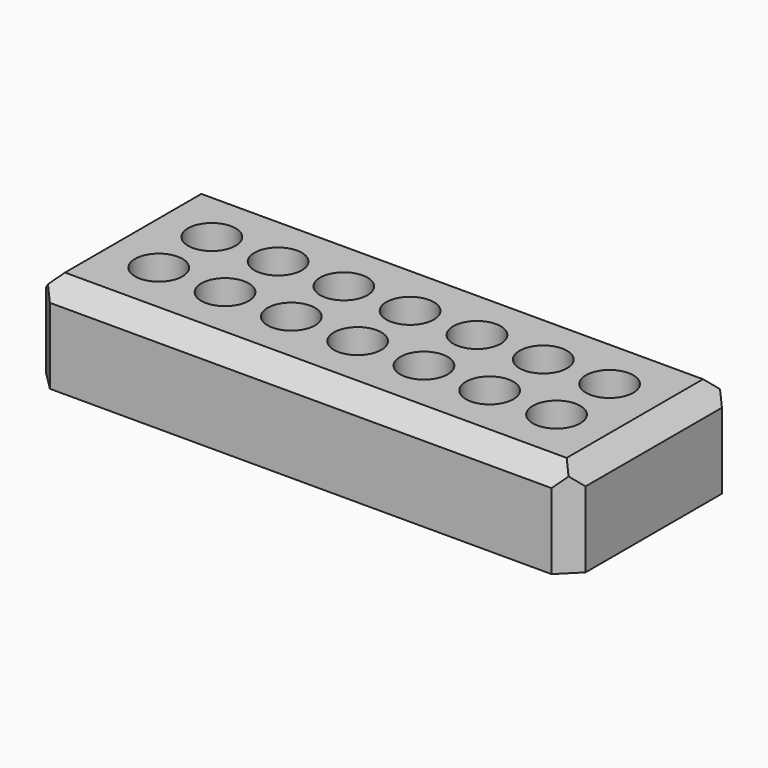
from build123d import *

# Parameters (mm, degrees)
F0_W     = 144.78
F0_H     = 55.88
F1_DEPTH = 25.4
F2_R     = 6.37356
F3_DEPTH = 20.32
F4_SIZE  = 5.08
F5_SIZE  = 5.08


with BuildPart() as f1:
    # F0 (on Top) → F1 (new body)
    with BuildSketch(Plane.XY):
        with Locations((72.39, -27.94)):
            Rectangle(F0_W, F0_H)
    extrude(amount=F1_DEPTH)

    # F2 (on face) → F3 (cut)
    with BuildSketch(Plane.XY.offset(25.4)):
        with Locations((125.770479, -18.998763)):
            Circle(F2_R)
        with Locations((125.770479, -36.789436)):
            Circle(F2_R)
        with Locations((107.979804, -36.989331)):
            Circle(F2_R)
        with Locations((107.979804, -18.998763)):
            Circle(F2_R)
        with Locations((90.189137, -18.998763)):
            Circle(F2_R)
        with Locations((90.189137, -36.789436)):
            Circle(F2_R)
        with Locations((72.398461, -36.789436)):
            Circle(F2_R)
        with Locations((72.398461, -19.19866)):
            Circle(F2_R)
        with Locations((54.60779, -19.19866)):
            Circle(F2_R)
        with Locations((54.60779, -36.789436)):
            Circle(F2_R)
        with Locations((36.817115, -36.789436)):
            Circle(F2_R)
        with Locations((36.817115, -18.998763)):
            Circle(F2_R)
        with Locations((19.02644, -18.998763)):
            Circle(F2_R)
        with Locations((19.02644, -36.789436)):
            Circle(F2_R)
    extrude(amount=-F3_DEPTH, mode=Mode.SUBTRACT)

    # F4
    f4_edges = [f1.edges().sort_by_distance(p)[0] for p in [
        (72.39, -55.88, 25.4),
        (72.39, 0, 25.4),
        (144.78, -27.94, 25.4),
        (0, -27.94, 25.4),
    ]]
    chamfer(f4_edges, length=F4_SIZE)

    # F5
    f5_edges = [f1.edges().sort_by_distance(p)[0] for p in [
        (144.78, -55.88, 10.16),
        (144.78, 0, 10.16),
        (0, -55.88, 10.16),
        (0, 0, 10.16),
    ]]
    chamfer(f5_edges, length=F5_SIZE)


solid = f1.part
